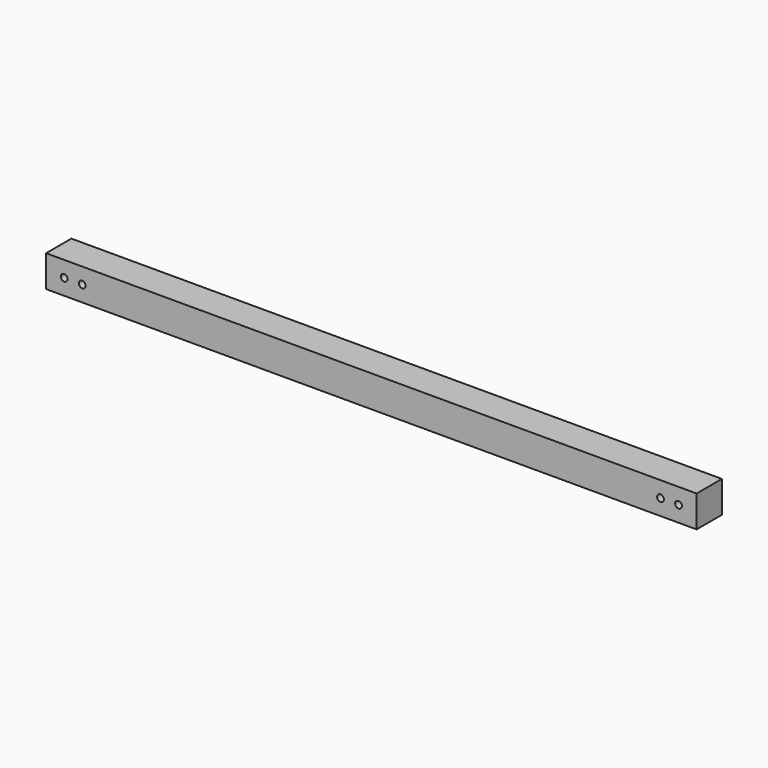
from build123d import *

# Parameters (mm, degrees)
F0_W           = 88.9
F0_H           = 88.9
F1_DEPTH       = 1828.8
F3_D           = 19.05
F3_CBORE_D     = 19.05
F3_CBORE_DEPTH = 19.05


with BuildPart() as f1:
    # F0 (on Right) → F1 (new body)
    with BuildSketch(Plane.YZ):
        Rectangle(F0_W, F0_H)
    extrude(amount=F1_DEPTH)

    # F3 (through all)
    with Locations(Plane.XZ.offset(44.45)):
        with Locations((50.8, 0), (101.6, 0), (1778, 0), (1727.2, 0)):
            CounterBoreHole(F3_D / 2, F3_CBORE_D / 2, F3_CBORE_DEPTH)


solid = f1.part
